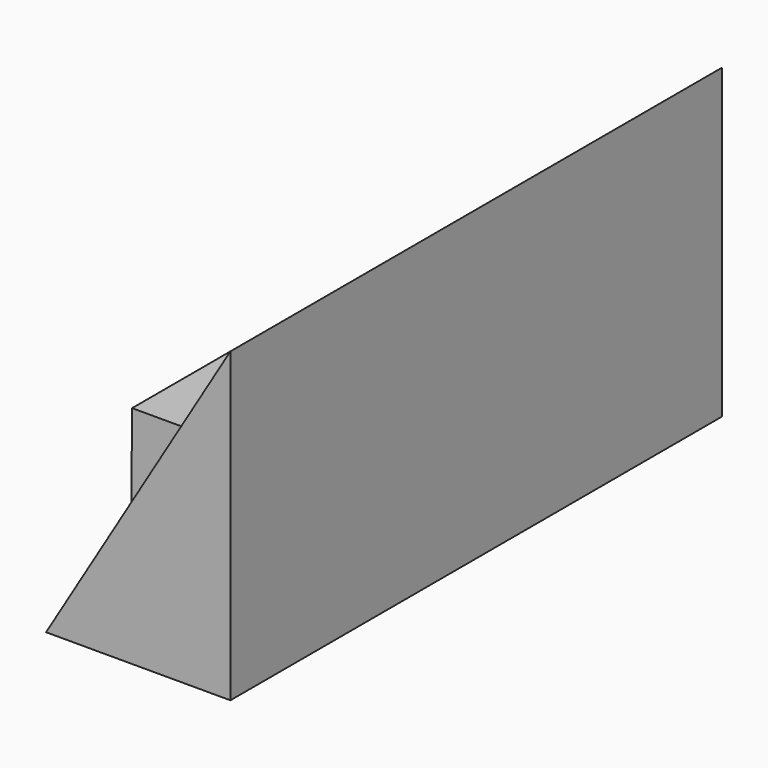
from build123d import *

# Parameters (mm, degrees)
F1_DEPTH = 127
F3_START = 22.225
F3_DEPTH = 82.55


with BuildPart() as f1:
    # F0 (on Front) → F1 (new body)
    with BuildSketch(Plane.XZ):
        Polygon((-15.1567216963, -31.75), (22.9432783037, -31.75), (22.9432783037, 31.75), (3.8932783037, 0), align=None)
    extrude(amount=F1_DEPTH)


with BuildPart() as f3:
    # F2 (on Front) → F3 (new body)
    with BuildSketch(Plane.XZ.offset(F3_START)):
        Polygon((-15.1567207649, 0), (-15.4481958598, -31.9165587425), (3.6434419453, 0), align=None)
    extrude(amount=F3_DEPTH)


solid = Compound([f1.part, f3.part])
